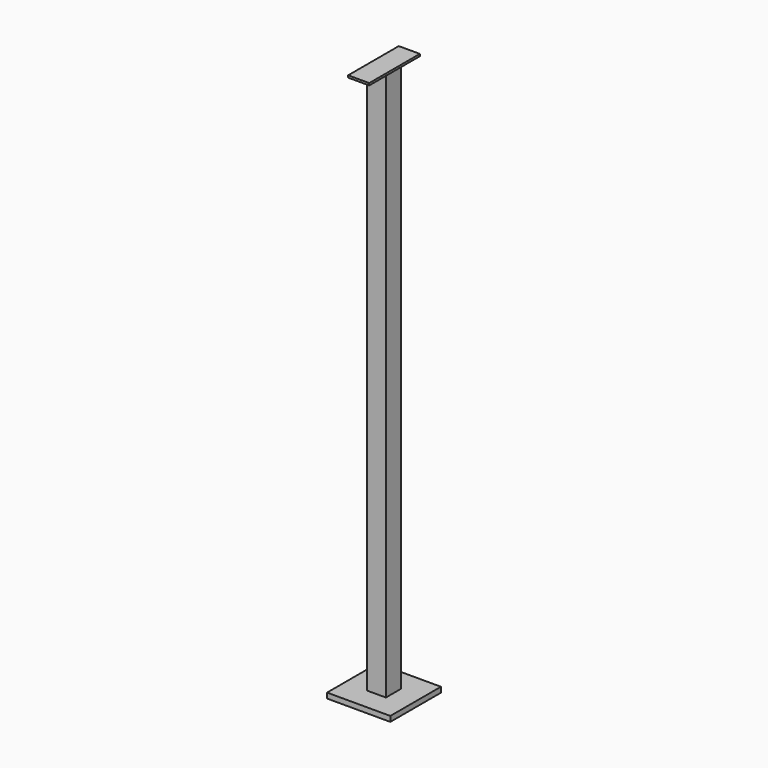
from build123d import *

# Parameters (mm, degrees)
F0_W     = 300
F0_H     = 300
F0_W_2   = 90
F0_H_2   = 90
F1_DEPTH = 25
F2_DEPTH = 2600
F3_W     = 100
F3_H     = 300
F4_DEPTH = 10


with BuildPart() as f1:
    # F0 (on Top) → F1 (new body)
    with BuildSketch(Plane.XY):
        with Locations((150, 150)):
            Rectangle(F0_W, F0_H)
        with Locations((150, 150)):
            Rectangle(F0_W_2, F0_H_2, mode=Mode.SUBTRACT)
        with Locations((150, 150)):
            Rectangle(F0_W_2, F0_H_2)
    extrude(amount=-F1_DEPTH)

    # F0 (on Top) → F2 (join)
    with BuildSketch(Plane.XY):
        with Locations((150, 150)):
            Rectangle(F0_W_2, F0_H_2)
    extrude(amount=F2_DEPTH)

    # F3 (on face) → F4 (join)
    with BuildSketch(Plane.XY.offset(2600)):
        with Locations((150, 150)):
            Rectangle(F3_W, F3_H)
    extrude(amount=F4_DEPTH)


solid = f1.part
